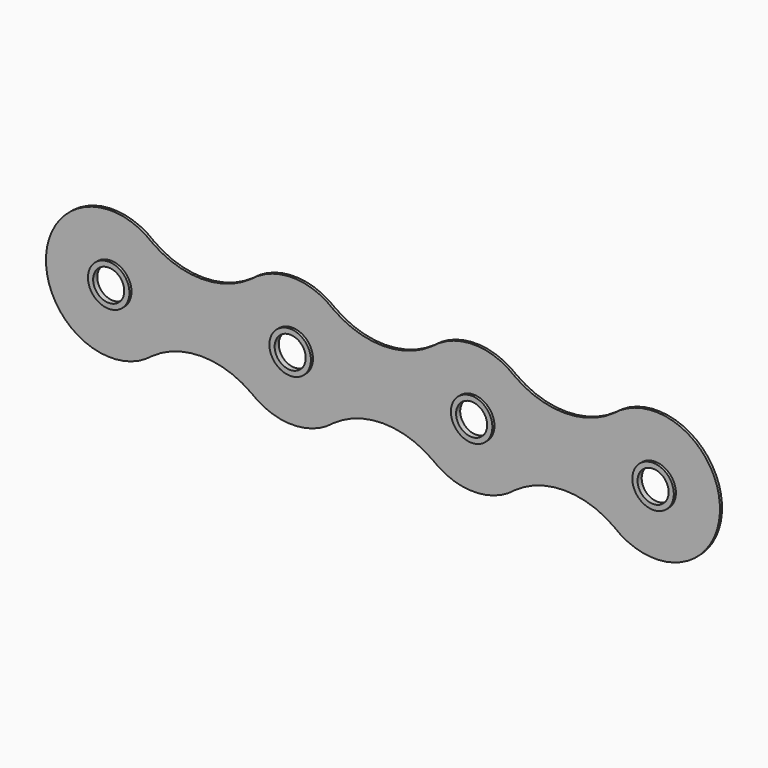
from build123d import *

# Parameters (mm, degrees)
F1_R      = 12.5
F4_DEPTH  = 0.5
F5_R      = 4
F6_DEPTH  = 0.5
F3_R      = 3
F2_R      = 2.7
F7_R      = 3
F9_DEPTH  = 25
F14_DEPTH = 0.5


with BuildPart() as f4:
    # F1 (on Front) → F4 (new body)
    with BuildSketch(Plane.XZ):
        Circle(F1_R)
    extrude(amount=F4_DEPTH)

    # F5 (on face) → F6 (join)
    with BuildSketch(Plane.XZ.offset(0.5)):
        Circle(F5_R)
    extrude(amount=F6_DEPTH)

    # F3 (on Front) → F8 section 0
    with BuildSketch(Plane.XZ):
        Circle(F3_R)
    # F2 (on offset) → F8 section 1
    with BuildSketch(Plane.XZ.offset(1.5)):
        Circle(F2_R)
    loft(mode=Mode.SUBTRACT)

    # F7 (on face) → F9 (cut)
    with BuildSketch(Plane.XZ.offset(1)):
        Circle(F7_R)
    extrude(amount=-F9_DEPTH, mode=Mode.SUBTRACT)


with BuildPart() as f10_1:
    # F10: copy of F4
    add(f4.part.moved(Location((35, 0, 0))))


with BuildPart() as f11_1:
    # F11: copy of F4
    add(f4.part.moved(Location((105, 0, 0))))


with BuildPart() as f12_1:
    # F12: copy of F4
    add(f4.part.moved(Location((70, 0, 0))))


with BuildPart() as f4_1:
    add(f4.part)

    add(f10_1.part)  # F14 merges F10_1

    add(f11_1.part)  # F14 merges F11_1

    add(f12_1.part)  # F14 merges F12_1
    # F13 (on Front) → F14 (join)
    with BuildSketch(Plane.XZ):
        with BuildLine():
            ThreePointArc((27.0678855609, 9.6608260788), (17.5, 6.5713974561), (7.9321144391, 9.6608260788))
            Line((7.9321144391, 9.6608260788), (7.9321144391, -9.6608260788))
            ThreePointArc((7.9321144391, -9.6608260788), (17.5, -6.5713974561), (27.0678855609, -9.6608260788))
            Line((27.0678855609, -9.6608260788), (27.0678855609, 9.6608260788))
        make_face()
        with BuildLine():
            ThreePointArc((62.0678855609, 9.6608260788), (52.5, 6.5713974561), (42.9321144391, 9.6608260788))
            Line((42.9321144391, 9.6608260788), (42.9321144391, -9.6608260788))
            ThreePointArc((42.9321144391, -9.6608260788), (52.5, -6.5713974561), (62.0678855609, -9.6608260788))
            Line((62.0678855609, -9.6608260788), (62.0678855609, 9.6608260788))
        make_face()
        with BuildLine():
            ThreePointArc((97.0678855609, 9.6608260788), (87.5, 6.5713974561), (77.9321144391, 9.6608260788))
            Line((77.9321144391, 9.6608260788), (77.9321144391, -9.6608260788))
            ThreePointArc((77.9321144391, -9.6608260788), (87.5, -6.5713974561), (97.0678855609, -9.6608260788))
            Line((97.0678855609, -9.6608260788), (97.0678855609, 9.6608260788))
        make_face()
    extrude(amount=F14_DEPTH)


solid = f4_1.part
